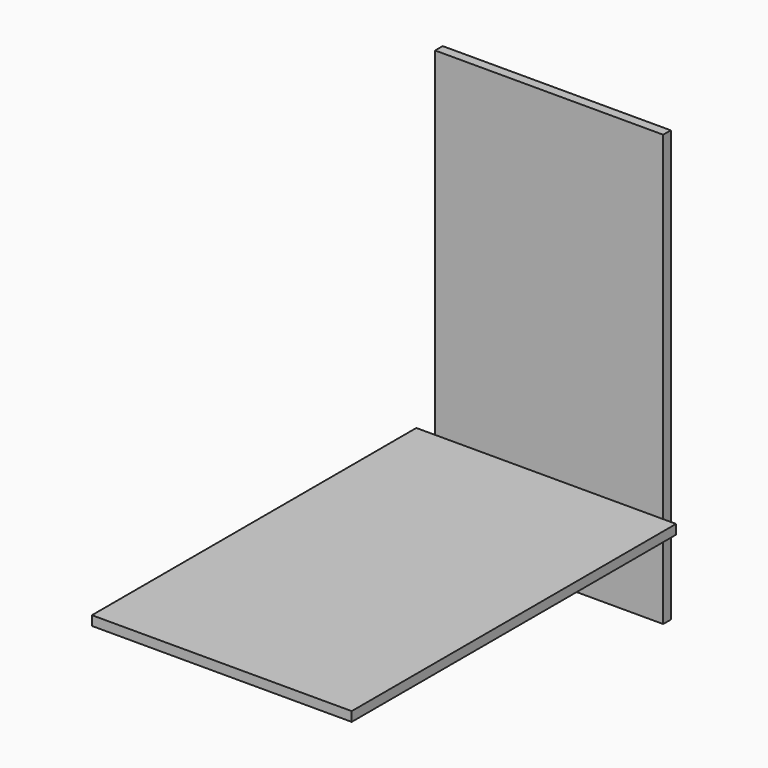
from build123d import *

# Parameters (mm, degrees)
F0_W     = 520.7
F0_H     = 812.8
F1_DEPTH = 19.05
F2_W     = 457.2
F2_H     = 863.6
F3_DEPTH = 19.05


with BuildPart() as f1:
    # F0 (on Top) → F1 (new body)
    with BuildSketch(Plane.XY):
        with Locations((-203.89695, -406.4)):
            Rectangle(F0_W, F0_H)
    extrude(amount=F1_DEPTH)

    # F2 (on Front) → F3 (join)
    with BuildSketch(Plane.XZ):
        with Locations((-197.92576, 265.704936)):
            Rectangle(F2_W, F2_H)
    extrude(amount=-F3_DEPTH)


solid = f1.part
